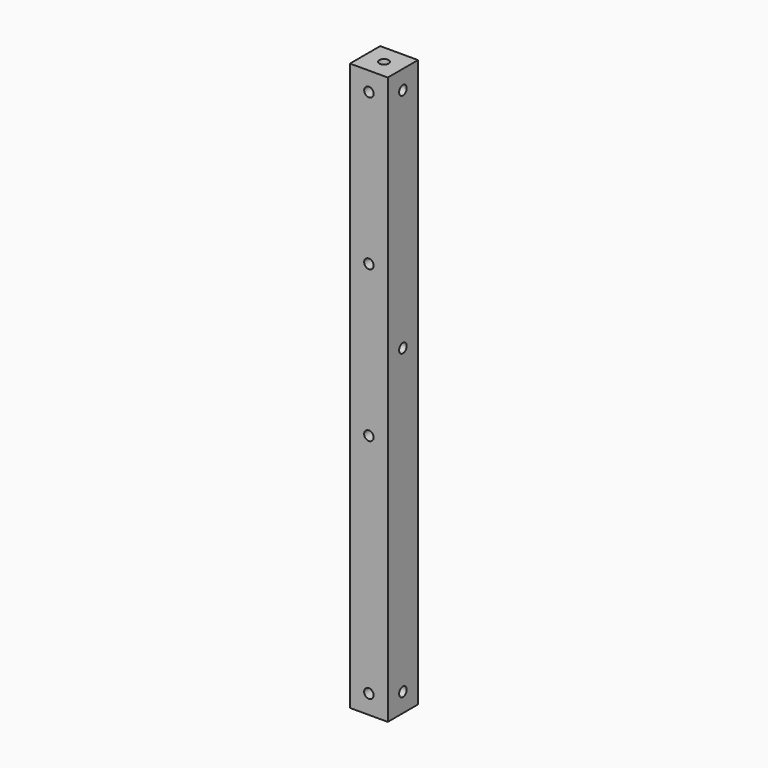
from build123d import *

# Parameters (mm, degrees)
F0_W      = 10
F0_H      = 10
F1_DEPTH  = 150
F3_D      = 2.5
F3_DEPTH  = 15
F3_TIP    = 0.7510757738
F5_D      = 2.5
F5_DEPTH  = 15
F5_TIP    = 0.7510757738
F7_D      = 2.5
F7_DEPTH  = 10
F7_TIP    = 0.7510757738
F9_D      = 2.5
F9_DEPTH  = 10
F9_TIP    = 0.7510757738
F11_D     = 2.5
F11_DEPTH = 10
F11_TIP   = 0.7510757738
F13_D     = 2.5
F13_DEPTH = 10
F13_TIP   = 0.7510757738
F15_D     = 2.5
F15_DEPTH = 10
F15_TIP   = 0.7510757738
F17_D     = 2.5
F17_DEPTH = 10
F17_TIP   = 0.7510757738
F19_D     = 2.5
F19_DEPTH = 10
F19_TIP   = 0.7510757738


with BuildPart() as f1:
    # F0 (on Top) → F1 (new body)
    with BuildSketch(Plane.XY):
        with Locations((5, -5)):
            Rectangle(F0_W, F0_H)
    extrude(amount=F1_DEPTH)

    # F3
    with Locations(Plane.XY.offset(150)):
        with Locations((5, -5)):
            Hole(F3_D / 2, depth=F3_DEPTH)
            with Locations((0, 0, -(F3_DEPTH + F3_TIP / 2))):  # 118° drill point
                Cone(0, F3_D / 2, F3_TIP, mode=Mode.SUBTRACT)

    # F5
    with Locations(Plane(origin=(0, 0, 0), x_dir=(1, 0, 0), z_dir=(0, 0, -1))):
        with Locations((5, 5.128350097)):
            Hole(F5_D / 2, depth=F5_DEPTH)
            with Locations((0, 0, -(F5_DEPTH + F5_TIP / 2))):  # 118° drill point
                Cone(0, F5_D / 2, F5_TIP, mode=Mode.SUBTRACT)

    # F7
    with Locations(Plane(origin=(0, 0, 0), x_dir=(-1, 0, 0), z_dir=(0, 1, 0))):
        with Locations((-5, 5)):
            Hole(F7_D / 2, depth=F7_DEPTH)
            with Locations((0, 0, -(F7_DEPTH + F7_TIP / 2))):  # 118° drill point
                Cone(0, F7_D / 2, F7_TIP, mode=Mode.SUBTRACT)

    # F9
    with Locations(Plane.XZ.offset(10)):
        with Locations((5.0156186335, 145)):
            Hole(F9_D / 2, depth=F9_DEPTH)
            with Locations((0, 0, -(F9_DEPTH + F9_TIP / 2))):  # 118° drill point
                Cone(0, F9_D / 2, F9_TIP, mode=Mode.SUBTRACT)

    # F11
    with Locations(Plane.XZ.offset(10)):
        with Locations((5, 65)):
            Hole(F11_D / 2, depth=F11_DEPTH)
            with Locations((0, 0, -(F11_DEPTH + F11_TIP / 2))):  # 118° drill point
                Cone(0, F11_D / 2, F11_TIP, mode=Mode.SUBTRACT)

    # F13
    with Locations(Plane.XZ.offset(10)):
        with Locations((5, 105)):
            Hole(F13_D / 2, depth=F13_DEPTH)
            with Locations((0, 0, -(F13_DEPTH + F13_TIP / 2))):  # 118° drill point
                Cone(0, F13_D / 2, F13_TIP, mode=Mode.SUBTRACT)

    # F15
    with Locations(Plane.YZ.offset(10)):
        with Locations((-5, 145)):
            Hole(F15_D / 2, depth=F15_DEPTH)
            with Locations((0, 0, -(F15_DEPTH + F15_TIP / 2))):  # 118° drill point
                Cone(0, F15_D / 2, F15_TIP, mode=Mode.SUBTRACT)

    # F17
    with Locations(Plane.YZ.offset(10)):
        with Locations((-5, 5)):
            Hole(F17_D / 2, depth=F17_DEPTH)
            with Locations((0, 0, -(F17_DEPTH + F17_TIP / 2))):  # 118° drill point
                Cone(0, F17_D / 2, F17_TIP, mode=Mode.SUBTRACT)

    # F19
    with Locations(Plane.YZ.offset(10)):
        with Locations((-5, 85)):
            Hole(F19_D / 2, depth=F19_DEPTH)
            with Locations((0, 0, -(F19_DEPTH + F19_TIP / 2))):  # 118° drill point
                Cone(0, F19_D / 2, F19_TIP, mode=Mode.SUBTRACT)


solid = f1.part
